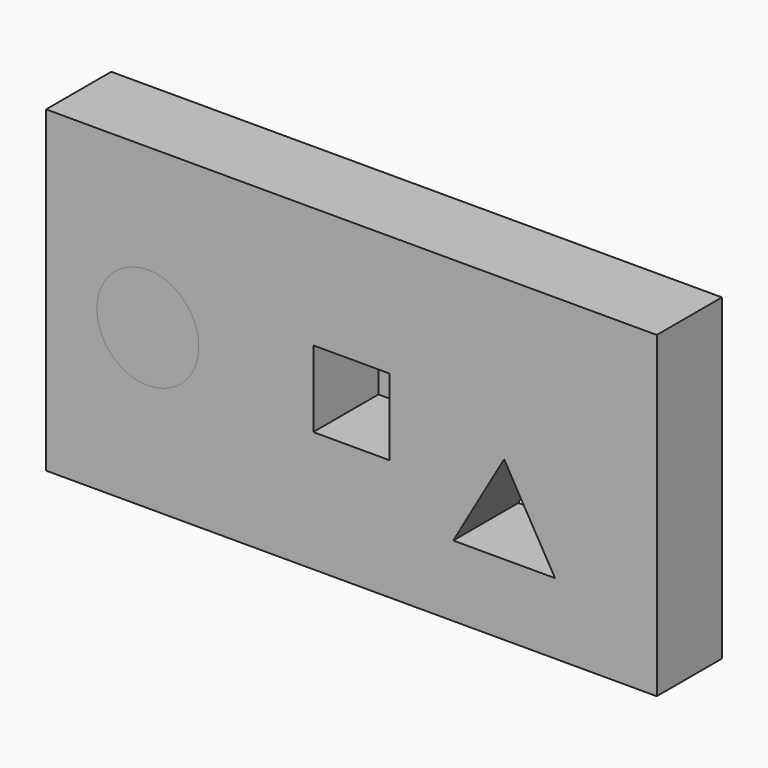
from build123d import *

# Parameters (mm, degrees)
F0_W          = 152.4
F0_H          = 79.375
F0_R          = 12.7
F0_W_2        = 19.05
F0_H_2        = 19.05
F1_DEPTH      = 20.32
F2_DEPTH      = 31.75
F2_DEPTH_BACK = 20.32
F3_DEPTH      = 31.75


with BuildPart() as f1:
    # F0 (on Front) → F1 (new body)
    with BuildSketch(Plane.XZ):
        with Locations((-31.75, 0)):
            Rectangle(F0_W, F0_H)
        Polygon((-6.35, -21.9970452561), (6.35, 0), (19.05, -21.9970452561), align=None, mode=Mode.SUBTRACT)
        with Locations((-82.55, 0)):
            Circle(F0_R, mode=Mode.SUBTRACT)
        with Locations((-31.75, 0)):
            Rectangle(F0_W_2, F0_H_2, mode=Mode.SUBTRACT)
    extrude(amount=F1_DEPTH)


with BuildPart() as f2:
    # F0 (on Front) → F2 (new body, two sides)
    with BuildSketch(Plane.XZ) as f2_sk:
        with Locations((-82.55, 0)):
            Circle(F0_R)
    extrude(amount=-F2_DEPTH)
    extrude(f2_sk.sketch, amount=F2_DEPTH_BACK)


with BuildPart() as f3:
    # F0 (on Front) → F3 (new body)
    with BuildSketch(Plane.XZ):
        with Locations((-31.75, 0)):
            Rectangle(F0_W_2, F0_H_2)
    extrude(amount=-F3_DEPTH)


solid = Compound([f1.part, f2.part, f3.part])
